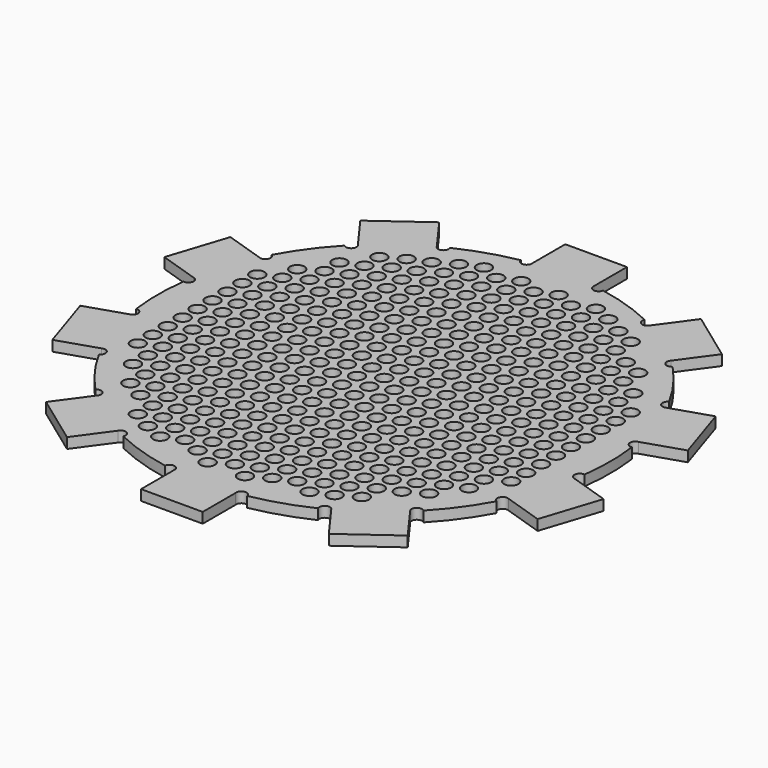
from build123d import *

# Parameters (mm, degrees)
F0_R     = 2.5
F1_DEPTH = 0.127
F3_R     = 0.0875
F4_DEPTH = 0.128


with BuildPart() as f1:
    # F0 (on Top) → F1 (new body)
    with BuildSketch(Plane.XY):
        with BuildLine():
            ThreePointArc((0.500372, 2.704095), (0.427693, 2.652237), (0.375, 2.724312))
            ThreePointArc((0.375, 2.724312), (0, 2.75), (-0.375, 2.724312))
            ThreePointArc((-0.375, 2.724312), (-0.427693, 2.652237), (-0.500372, 2.704095))
            ThreePointArc((-0.500372, 2.704095), (-0.849797, 2.615405), (-1.184618, 2.48177))
            ThreePointArc((-1.184618, 2.48177), (-1.212935, 2.397097), (-1.297929, 2.424434))
            ThreePointArc((-1.297929, 2.424434), (-1.616409, 2.224797), (-1.904692, 1.983595))
            ThreePointArc((-1.904692, 1.983595), (-1.904957, 1.894313), (-1.994236, 1.893547))
            ThreePointArc((-1.994236, 1.893547), (-2.224797, 1.616409), (-2.417123, 1.311493))
            ThreePointArc((-2.417123, 1.311493), (-2.390263, 1.226347), (-2.475093, 1.198505))
            ThreePointArc((-2.475093, 1.198505), (-2.615405, 0.849797), (-2.706856, 0.485212))
            ThreePointArc((-2.706856, 0.485212), (-2.654592, 0.412826), (-2.72637, 0.359729))
            ThreePointArc((-2.72637, 0.359729), (-2.75, 0), (-2.72637, -0.359729))
            ThreePointArc((-2.72637, -0.359729), (-2.654592, -0.412826), (-2.706856, -0.485212))
            ThreePointArc((-2.706856, -0.485212), (-2.615405, -0.849797), (-2.475093, -1.198505))
            ThreePointArc((-2.475093, -1.198505), (-2.390263, -1.226347), (-2.417123, -1.311493))
            ThreePointArc((-2.417123, -1.311493), (-2.224797, -1.616409), (-1.994236, -1.893547))
            ThreePointArc((-1.994236, -1.893547), (-1.904957, -1.894313), (-1.904692, -1.983595))
            Line((-1.904692, -1.983595), (-2.198584, -2.388104))
            Line((-2.198584, -2.388104), (-1.591822, -2.828943))
            Line((-1.591822, -2.828943), (-1.297929, -2.424434))
            ThreePointArc((-1.297929, -2.424434), (-1.212935, -2.397097), (-1.184618, -2.48177))
            ThreePointArc((-1.184618, -2.48177), (-0.849797, -2.615405), (-0.500372, -2.704095))
            ThreePointArc((-0.500372, -2.704095), (-0.427693, -2.652237), (-0.375, -2.724312))
            Line((-0.375, -2.724312), (-0.375, -3.224312))
            Line((-0.375, -3.224312), (0.375, -3.224312))
            Line((0.375, -3.224312), (0.375, -2.724312))
            ThreePointArc((0.375, -2.724312), (0.427693, -2.652237), (0.500372, -2.704095))
            ThreePointArc((0.500372, -2.704095), (0.849797, -2.615405), (1.184618, -2.48177))
            ThreePointArc((1.184618, -2.48177), (1.212935, -2.397097), (1.297929, -2.424434))
            ThreePointArc((1.297929, -2.424434), (1.616409, -2.224797), (1.904692, -1.983595))
            ThreePointArc((1.904692, -1.983595), (1.904957, -1.894313), (1.994236, -1.893547))
            ThreePointArc((1.994236, -1.893547), (2.224797, -1.616409), (2.417123, -1.311493))
            ThreePointArc((2.417123, -1.311493), (2.390263, -1.226347), (2.475093, -1.198505))
            ThreePointArc((2.475093, -1.198505), (2.615405, -0.849797), (2.706856, -0.485212))
            ThreePointArc((2.706856, -0.485212), (2.654592, -0.412826), (2.72637, -0.359729))
            ThreePointArc((2.72637, -0.359729), (2.75, 0), (2.72637, 0.359729))
            ThreePointArc((2.72637, 0.359729), (2.654592, 0.412826), (2.706856, 0.485212))
            ThreePointArc((2.706856, 0.485212), (2.615405, 0.849797), (2.475093, 1.198505))
            ThreePointArc((2.475093, 1.198505), (2.390263, 1.226347), (2.417123, 1.311493))
            ThreePointArc((2.417123, 1.311493), (2.224797, 1.616409), (1.994236, 1.893547))
            ThreePointArc((1.994236, 1.893547), (1.904957, 1.894313), (1.904692, 1.983595))
            ThreePointArc((1.904692, 1.983595), (1.616409, 2.224797), (1.297929, 2.424434))
            ThreePointArc((1.297929, 2.424434), (1.212935, 2.397097), (1.184618, 2.48177))
            ThreePointArc((1.184618, 2.48177), (0.849797, 2.615405), (0.500372, 2.704095))
        make_face()
        Circle(F0_R, mode=Mode.SUBTRACT)
        with BuildLine():
            ThreePointArc((-0.375, 2.724312), (0, 2.75), (0.375, 2.724312))
            Line((0.375, 2.724312), (0.375, 3.224312))
            Line((0.375, 3.224312), (-0.375, 3.224312))
            Line((-0.375, 3.224312), (-0.375, 2.724312))
        make_face()
        with BuildLine():
            Line((1.591822, 2.828943), (1.297929, 2.424434))
            ThreePointArc((1.297929, 2.424434), (1.616409, 2.224797), (1.904692, 1.983595))
            Line((1.904692, 1.983595), (2.198584, 2.388104))
            Line((2.198584, 2.388104), (1.591822, 2.828943))
        make_face()
        with BuildLine():
            ThreePointArc((-1.904692, 1.983595), (-1.616409, 2.224797), (-1.297929, 2.424434))
            Line((-1.297929, 2.424434), (-1.591822, 2.828943))
            Line((-1.591822, 2.828943), (-2.198584, 2.388104))
            Line((-2.198584, 2.388104), (-1.904692, 1.983595))
        make_face()
        with BuildLine():
            Line((2.950621, 1.353013), (2.475093, 1.198505))
            ThreePointArc((2.475093, 1.198505), (2.615405, 0.849797), (2.706856, 0.485212))
            Line((2.706856, 0.485212), (3.182384, 0.639721))
            Line((3.182384, 0.639721), (2.950621, 1.353013))
        make_face()
        with BuildLine():
            ThreePointArc((-2.706856, 0.485212), (-2.615405, 0.849797), (-2.475093, 1.198505))
            Line((-2.475093, 1.198505), (-2.950621, 1.353013))
            Line((-2.950621, 1.353013), (-3.182384, 0.639721))
            Line((-3.182384, 0.639721), (-2.706856, 0.485212))
        make_face()
        with BuildLine():
            Line((3.182384, -0.639721), (2.706856, -0.485212))
            ThreePointArc((2.706856, -0.485212), (2.615405, -0.849797), (2.475093, -1.198505))
            Line((2.475093, -1.198505), (2.950621, -1.353013))
            Line((2.950621, -1.353013), (3.182384, -0.639721))
        make_face()
        with BuildLine():
            ThreePointArc((-2.475093, -1.198505), (-2.615405, -0.849797), (-2.706856, -0.485212))
            Line((-2.706856, -0.485212), (-3.182384, -0.639721))
            Line((-3.182384, -0.639721), (-2.950621, -1.353013))
            Line((-2.950621, -1.353013), (-2.475093, -1.198505))
        make_face()
        with BuildLine():
            Line((2.198584, -2.388104), (1.904692, -1.983595))
            ThreePointArc((1.904692, -1.983595), (1.616409, -2.224797), (1.297929, -2.424434))
            Line((1.297929, -2.424434), (1.591822, -2.828943))
            Line((1.591822, -2.828943), (2.198584, -2.388104))
        make_face()
        Circle(F0_R)
    extrude(amount=F1_DEPTH)

    # F3 (on offset) → F4 (cut, through all)
    with BuildSketch(Plane.XY.offset(0.127)):
        with Locations((-2.041752, 1.233616)):
            Circle(F3_R)
        with Locations((-2.041752, 1.006616)):
            Circle(F3_R)
        with Locations((-2.269084, 0.910866)):
            Circle(F3_R)
        with Locations((-2.041752, 0.779616)):
            Circle(F3_R)
        with Locations((-1.587752, 1.914616)):
            Circle(F3_R)
        with Locations((-1.587752, 1.687616)):
            Circle(F3_R)
        with Locations((-1.815084, 1.591866)):
            Circle(F3_R)
        with Locations((-1.587752, 1.460616)):
            Circle(F3_R)
        with Locations((-1.815084, 1.364866)):
            Circle(F3_R)
        with Locations((-1.587752, 1.233616)):
            Circle(F3_R)
        with Locations((-1.815084, 1.137866)):
            Circle(F3_R)
        with Locations((-1.587752, 1.006616)):
            Circle(F3_R)
        with Locations((-1.815084, 0.910866)):
            Circle(F3_R)
        with Locations((-1.587752, 0.779616)):
            Circle(F3_R)
        with Locations((-1.133752, 2.141616)):
            Circle(F3_R)
        with Locations((-1.361084, 2.045866)):
            Circle(F3_R)
        with Locations((-1.133752, 1.914616)):
            Circle(F3_R)
        with Locations((-1.361084, 1.818866)):
            Circle(F3_R)
        with Locations((-1.133752, 1.687616)):
            Circle(F3_R)
        with Locations((-1.361084, 1.591866)):
            Circle(F3_R)
        with Locations((-1.133752, 1.460616)):
            Circle(F3_R)
        with Locations((-1.361084, 1.364866)):
            Circle(F3_R)
        with Locations((-1.133752, 1.233616)):
            Circle(F3_R)
        with Locations((-1.361084, 1.137866)):
            Circle(F3_R)
        with Locations((-1.133752, 1.006616)):
            Circle(F3_R)
        with Locations((-1.361084, 0.910866)):
            Circle(F3_R)
        with Locations((-1.133752, 0.779616)):
            Circle(F3_R)
        with Locations((-0.679752, 2.368616)):
            Circle(F3_R)
        with Locations((-0.907084, 2.272866)):
            Circle(F3_R)
        with Locations((-0.679752, 2.141616)):
            Circle(F3_R)
        with Locations((-0.907084, 2.045866)):
            Circle(F3_R)
        with Locations((-0.679752, 1.914616)):
            Circle(F3_R)
        with Locations((-0.907084, 1.818866)):
            Circle(F3_R)
        with Locations((-0.679752, 1.687616)):
            Circle(F3_R)
        with Locations((-0.907084, 1.591866)):
            Circle(F3_R)
        with Locations((-0.679752, 1.460616)):
            Circle(F3_R)
        with Locations((-0.907084, 1.364866)):
            Circle(F3_R)
        with Locations((-0.679752, 1.233616)):
            Circle(F3_R)
        with Locations((-0.907084, 1.137866)):
            Circle(F3_R)
        with Locations((-0.679752, 1.006616)):
            Circle(F3_R)
        with Locations((-0.907084, 0.910866)):
            Circle(F3_R)
        with Locations((-0.679752, 0.779616)):
            Circle(F3_R)
        with Locations((-0.225752, 2.368616)):
            Circle(F3_R)
        with Locations((-0.453084, 2.272866)):
            Circle(F3_R)
        with Locations((-0.225752, 2.141616)):
            Circle(F3_R)
        with Locations((-0.453084, 2.045866)):
            Circle(F3_R)
        with Locations((-0.225752, 1.914616)):
            Circle(F3_R)
        with Locations((-0.453084, 1.818866)):
            Circle(F3_R)
        with Locations((-0.225752, 1.687616)):
            Circle(F3_R)
        with Locations((-0.453084, 1.591866)):
            Circle(F3_R)
        with Locations((-0.225752, 1.460616)):
            Circle(F3_R)
        with Locations((-0.453084, 1.364866)):
            Circle(F3_R)
        with Locations((-0.225752, 1.233616)):
            Circle(F3_R)
        with Locations((-0.453084, 1.137866)):
            Circle(F3_R)
        with Locations((-0.225752, 1.006616)):
            Circle(F3_R)
        with Locations((-0.453084, 0.910866)):
            Circle(F3_R)
        with Locations((-0.225752, 0.779616)):
            Circle(F3_R)
        with Locations((0.228248, 2.368616)):
            Circle(F3_R)
        with Locations((0.000916, 2.272866)):
            Circle(F3_R)
        with Locations((0.228248, 2.141616)):
            Circle(F3_R)
        with Locations((0.000916, 2.045866)):
            Circle(F3_R)
        with Locations((0.228248, 1.914616)):
            Circle(F3_R)
        with Locations((0.000916, 1.818866)):
            Circle(F3_R)
        with Locations((0.228248, 1.687616)):
            Circle(F3_R)
        with Locations((0.000916, 1.591866)):
            Circle(F3_R)
        with Locations((0.228248, 1.460616)):
            Circle(F3_R)
        with Locations((0.000916, 1.364866)):
            Circle(F3_R)
        with Locations((0.228248, 1.233616)):
            Circle(F3_R)
        with Locations((0.000916, 1.137866)):
            Circle(F3_R)
        with Locations((0.228248, 1.006616)):
            Circle(F3_R)
        with Locations((0.000916, 0.910866)):
            Circle(F3_R)
        with Locations((0.228248, 0.779616)):
            Circle(F3_R)
        with Locations((0.682248, 2.368616)):
            Circle(F3_R)
        with Locations((0.454916, 2.272866)):
            Circle(F3_R)
        with Locations((0.682248, 2.141616)):
            Circle(F3_R)
        with Locations((0.454916, 2.045866)):
            Circle(F3_R)
        with Locations((0.682248, 1.914616)):
            Circle(F3_R)
        with Locations((0.454916, 1.818866)):
            Circle(F3_R)
        with Locations((0.682248, 1.687616)):
            Circle(F3_R)
        with Locations((0.454916, 1.591866)):
            Circle(F3_R)
        with Locations((0.682248, 1.460616)):
            Circle(F3_R)
        with Locations((0.454916, 1.364866)):
            Circle(F3_R)
        with Locations((0.682248, 1.233616)):
            Circle(F3_R)
        with Locations((0.454916, 1.137866)):
            Circle(F3_R)
        with Locations((0.682248, 1.006616)):
            Circle(F3_R)
        with Locations((0.454916, 0.910866)):
            Circle(F3_R)
        with Locations((0.682248, 0.779616)):
            Circle(F3_R)
        with Locations((0.908916, 2.272866)):
            Circle(F3_R)
        with Locations((1.136248, 2.141616)):
            Circle(F3_R)
        with Locations((0.908916, 2.045866)):
            Circle(F3_R)
        with Locations((1.136248, 1.914616)):
            Circle(F3_R)
        with Locations((0.908916, 1.818866)):
            Circle(F3_R)
        with Locations((1.136248, 1.687616)):
            Circle(F3_R)
        with Locations((0.908916, 1.591866)):
            Circle(F3_R)
        with Locations((1.136248, 1.460616)):
            Circle(F3_R)
        with Locations((0.908916, 1.364866)):
            Circle(F3_R)
        with Locations((1.136248, 1.233616)):
            Circle(F3_R)
        with Locations((0.908916, 1.137866)):
            Circle(F3_R)
        with Locations((1.136248, 1.006616)):
            Circle(F3_R)
        with Locations((0.908916, 0.910866)):
            Circle(F3_R)
        with Locations((1.136248, 0.779616)):
            Circle(F3_R)
        with Locations((1.362916, 2.045866)):
            Circle(F3_R)
        with Locations((1.362916, 1.818866)):
            Circle(F3_R)
        with Locations((1.590248, 1.687616)):
            Circle(F3_R)
        with Locations((1.362916, 1.591866)):
            Circle(F3_R)
        with Locations((1.590248, 1.460616)):
            Circle(F3_R)
        with Locations((1.362916, 1.364866)):
            Circle(F3_R)
        with Locations((1.590248, 1.233616)):
            Circle(F3_R)
        with Locations((1.362916, 1.137866)):
            Circle(F3_R)
        with Locations((1.590248, 1.006616)):
            Circle(F3_R)
        with Locations((1.362916, 0.910866)):
            Circle(F3_R)
        with Locations((1.590248, 0.779616)):
            Circle(F3_R)
        with Locations((1.816916, 1.591866)):
            Circle(F3_R)
        with Locations((1.816916, 1.364866)):
            Circle(F3_R)
        with Locations((2.044248, 1.233616)):
            Circle(F3_R)
        with Locations((1.816916, 1.137866)):
            Circle(F3_R)
        with Locations((2.044248, 1.006616)):
            Circle(F3_R)
        with Locations((1.816916, 0.910866)):
            Circle(F3_R)
        with Locations((2.044248, 0.779616)):
            Circle(F3_R)
        with Locations((-2.269084, 0.683866)):
            Circle(F3_R)
        with Locations((-2.041752, 0.552616)):
            Circle(F3_R)
        with Locations((-2.269084, 0.456866)):
            Circle(F3_R)
        with Locations((-2.041752, 0.325616)):
            Circle(F3_R)
        with Locations((-2.269084, 0.229866)):
            Circle(F3_R)
        with Locations((-2.041752, 0.098616)):
            Circle(F3_R)
        with Locations((-2.269084, 0.002866)):
            Circle(F3_R)
        with Locations((-2.041752, -0.128384)):
            Circle(F3_R)
        with Locations((-2.269084, -0.224134)):
            Circle(F3_R)
        with Locations((-2.041752, -0.355384)):
            Circle(F3_R)
        with Locations((-2.269084, -0.451134)):
            Circle(F3_R)
        with Locations((-2.041752, -0.582384)):
            Circle(F3_R)
        with Locations((-2.269084, -0.678134)):
            Circle(F3_R)
        with Locations((-2.041752, -0.809384)):
            Circle(F3_R)
        with Locations((-2.269084, -0.905134)):
            Circle(F3_R)
        with Locations((-2.041752, -1.036384)):
            Circle(F3_R)
        with Locations((-2.041752, -1.263384)):
            Circle(F3_R)
        with Locations((-1.815084, 0.683866)):
            Circle(F3_R)
        with Locations((-1.587752, 0.552616)):
            Circle(F3_R)
        with Locations((-1.815084, 0.456866)):
            Circle(F3_R)
        with Locations((-1.587752, 0.325616)):
            Circle(F3_R)
        with Locations((-1.815084, 0.229866)):
            Circle(F3_R)
        with Locations((-1.587752, 0.098616)):
            Circle(F3_R)
        with Locations((-1.815084, 0.002866)):
            Circle(F3_R)
        with Locations((-1.587752, -0.128384)):
            Circle(F3_R)
        with Locations((-1.815084, -0.224134)):
            Circle(F3_R)
        with Locations((-1.587752, -0.355384)):
            Circle(F3_R)
        with Locations((-1.815084, -0.451134)):
            Circle(F3_R)
        with Locations((-1.587752, -0.582384)):
            Circle(F3_R)
        with Locations((-1.815084, -0.678134)):
            Circle(F3_R)
        with Locations((-1.587752, -0.809384)):
            Circle(F3_R)
        with Locations((-1.815084, -0.905134)):
            Circle(F3_R)
        with Locations((-1.587752, -1.036384)):
            Circle(F3_R)
        with Locations((-1.815084, -1.132134)):
            Circle(F3_R)
        with Locations((-1.587752, -1.263384)):
            Circle(F3_R)
        with Locations((-1.815084, -1.359134)):
            Circle(F3_R)
        with Locations((-1.587752, -1.490384)):
            Circle(F3_R)
        with Locations((-1.815084, -1.586134)):
            Circle(F3_R)
        with Locations((-1.587752, -1.717384)):
            Circle(F3_R)
        with Locations((-1.361084, 0.683866)):
            Circle(F3_R)
        with Locations((-1.133752, 0.552616)):
            Circle(F3_R)
        with Locations((-1.361084, 0.456866)):
            Circle(F3_R)
        with Locations((-1.133752, 0.325616)):
            Circle(F3_R)
        with Locations((-1.361084, 0.229866)):
            Circle(F3_R)
        with Locations((-1.133752, 0.098616)):
            Circle(F3_R)
        with Locations((-1.361084, 0.002866)):
            Circle(F3_R)
        with Locations((-1.133752, -0.128384)):
            Circle(F3_R)
        with Locations((-1.361084, -0.224134)):
            Circle(F3_R)
        with Locations((-1.133752, -0.355384)):
            Circle(F3_R)
        with Locations((-1.361084, -0.451134)):
            Circle(F3_R)
        with Locations((-1.133752, -0.582384)):
            Circle(F3_R)
        with Locations((-1.361084, -0.678134)):
            Circle(F3_R)
        with Locations((-1.133752, -0.809384)):
            Circle(F3_R)
        with Locations((-1.361084, -0.905134)):
            Circle(F3_R)
        with Locations((-1.133752, -1.036384)):
            Circle(F3_R)
        with Locations((-1.361084, -1.132134)):
            Circle(F3_R)
        with Locations((-1.133752, -1.263384)):
            Circle(F3_R)
        with Locations((-1.361084, -1.359134)):
            Circle(F3_R)
        with Locations((-1.133752, -1.490384)):
            Circle(F3_R)
        with Locations((-1.361084, -1.586134)):
            Circle(F3_R)
        with Locations((-1.133752, -1.717384)):
            Circle(F3_R)
        with Locations((-0.907084, 0.683866)):
            Circle(F3_R)
        with Locations((-0.679752, 0.552616)):
            Circle(F3_R)
        with Locations((-0.907084, 0.456866)):
            Circle(F3_R)
        with Locations((-0.679752, 0.325616)):
            Circle(F3_R)
        with Locations((-0.907084, 0.229866)):
            Circle(F3_R)
        with Locations((-0.679752, 0.098616)):
            Circle(F3_R)
        with Locations((-0.907084, 0.002866)):
            Circle(F3_R)
        with Locations((-0.679752, -0.128384)):
            Circle(F3_R)
        with Locations((-0.907084, -0.224134)):
            Circle(F3_R)
        with Locations((-0.679752, -0.355384)):
            Circle(F3_R)
        with Locations((-0.907084, -0.451134)):
            Circle(F3_R)
        with Locations((-0.679752, -0.582384)):
            Circle(F3_R)
        with Locations((-0.907084, -0.678134)):
            Circle(F3_R)
        with Locations((-0.679752, -0.809384)):
            Circle(F3_R)
        with Locations((-0.907084, -0.905134)):
            Circle(F3_R)
        with Locations((-0.679752, -1.036384)):
            Circle(F3_R)
        with Locations((-0.907084, -1.132134)):
            Circle(F3_R)
        with Locations((-0.679752, -1.263384)):
            Circle(F3_R)
        with Locations((-0.907084, -1.359134)):
            Circle(F3_R)
        with Locations((-0.679752, -1.490384)):
            Circle(F3_R)
        with Locations((-0.907084, -1.586134)):
            Circle(F3_R)
        with Locations((-0.679752, -1.717384)):
            Circle(F3_R)
        with Locations((-0.453084, 0.683866)):
            Circle(F3_R)
        with Locations((-0.225752, 0.552616)):
            Circle(F3_R)
        with Locations((-0.453084, 0.456866)):
            Circle(F3_R)
        with Locations((-0.225752, 0.325616)):
            Circle(F3_R)
        with Locations((-0.453084, 0.229866)):
            Circle(F3_R)
        with Locations((-0.225752, 0.098616)):
            Circle(F3_R)
        with Locations((-0.453084, 0.002866)):
            Circle(F3_R)
        with Locations((-0.225752, -0.128384)):
            Circle(F3_R)
        with Locations((-0.453084, -0.224134)):
            Circle(F3_R)
        with Locations((-0.225752, -0.355384)):
            Circle(F3_R)
        with Locations((-0.453084, -0.451134)):
            Circle(F3_R)
        with Locations((-0.225752, -0.582384)):
            Circle(F3_R)
        with Locations((-0.453084, -0.678134)):
            Circle(F3_R)
        with Locations((-0.225752, -0.809384)):
            Circle(F3_R)
        with Locations((-0.453084, -0.905134)):
            Circle(F3_R)
        with Locations((-0.225752, -1.036384)):
            Circle(F3_R)
        with Locations((-0.453084, -1.132134)):
            Circle(F3_R)
        with Locations((-0.225752, -1.263384)):
            Circle(F3_R)
        with Locations((-0.453084, -1.359134)):
            Circle(F3_R)
        with Locations((-0.225752, -1.490384)):
            Circle(F3_R)
        with Locations((-0.453084, -1.586134)):
            Circle(F3_R)
        with Locations((-0.225752, -1.717384)):
            Circle(F3_R)
        with Locations((0.000916, 0.683866)):
            Circle(F3_R)
        with Locations((0.228248, 0.552616)):
            Circle(F3_R)
        with Locations((0.000916, 0.456866)):
            Circle(F3_R)
        with Locations((0.228248, 0.325616)):
            Circle(F3_R)
        with Locations((0.000916, 0.229866)):
            Circle(F3_R)
        with Locations((0.228248, 0.098616)):
            Circle(F3_R)
        with Locations((0.000916, 0.002866)):
            Circle(F3_R)
        with Locations((0.228248, -0.128384)):
            Circle(F3_R)
        with Locations((0.000916, -0.224134)):
            Circle(F3_R)
        with Locations((0.228248, -0.355384)):
            Circle(F3_R)
        with Locations((0.000916, -0.451134)):
            Circle(F3_R)
        with Locations((0.228248, -0.582384)):
            Circle(F3_R)
        with Locations((0.000916, -0.678134)):
            Circle(F3_R)
        with Locations((0.228248, -0.809384)):
            Circle(F3_R)
        with Locations((0.000916, -0.905134)):
            Circle(F3_R)
        with Locations((0.228248, -1.036384)):
            Circle(F3_R)
        with Locations((0.000916, -1.132134)):
            Circle(F3_R)
        with Locations((0.228248, -1.263384)):
            Circle(F3_R)
        with Locations((0.000916, -1.359134)):
            Circle(F3_R)
        with Locations((0.228248, -1.490384)):
            Circle(F3_R)
        with Locations((0.000916, -1.586134)):
            Circle(F3_R)
        with Locations((0.228248, -1.717384)):
            Circle(F3_R)
        with Locations((0.454916, 0.683866)):
            Circle(F3_R)
        with Locations((0.682248, 0.552616)):
            Circle(F3_R)
        with Locations((0.454916, 0.456866)):
            Circle(F3_R)
        with Locations((0.682248, 0.325616)):
            Circle(F3_R)
        with Locations((0.454916, 0.229866)):
            Circle(F3_R)
        with Locations((0.682248, 0.098616)):
            Circle(F3_R)
        with Locations((0.454916, 0.002866)):
            Circle(F3_R)
        with Locations((0.682248, -0.128384)):
            Circle(F3_R)
        with Locations((0.454916, -0.224134)):
            Circle(F3_R)
        with Locations((0.682248, -0.355384)):
            Circle(F3_R)
        with Locations((0.454916, -0.451134)):
            Circle(F3_R)
        with Locations((0.682248, -0.582384)):
            Circle(F3_R)
        with Locations((0.454916, -0.678134)):
            Circle(F3_R)
        with Locations((0.682248, -0.809384)):
            Circle(F3_R)
        with Locations((0.454916, -0.905134)):
            Circle(F3_R)
        with Locations((0.682248, -1.036384)):
            Circle(F3_R)
        with Locations((0.454916, -1.132134)):
            Circle(F3_R)
        with Locations((0.682248, -1.263384)):
            Circle(F3_R)
        with Locations((0.454916, -1.359134)):
            Circle(F3_R)
        with Locations((0.682248, -1.490384)):
            Circle(F3_R)
        with Locations((0.454916, -1.586134)):
            Circle(F3_R)
        with Locations((0.682248, -1.717384)):
            Circle(F3_R)
        with Locations((0.908916, 0.683866)):
            Circle(F3_R)
        with Locations((1.136248, 0.552616)):
            Circle(F3_R)
        with Locations((0.908916, 0.456866)):
            Circle(F3_R)
        with Locations((1.136248, 0.325616)):
            Circle(F3_R)
        with Locations((0.908916, 0.229866)):
            Circle(F3_R)
        with Locations((1.136248, 0.098616)):
            Circle(F3_R)
        with Locations((0.908916, 0.002866)):
            Circle(F3_R)
        with Locations((1.136248, -0.128384)):
            Circle(F3_R)
        with Locations((0.908916, -0.224134)):
            Circle(F3_R)
        with Locations((1.136248, -0.355384)):
            Circle(F3_R)
        with Locations((0.908916, -0.451134)):
            Circle(F3_R)
        with Locations((1.136248, -0.582384)):
            Circle(F3_R)
        with Locations((0.908916, -0.678134)):
            Circle(F3_R)
        with Locations((1.136248, -0.809384)):
            Circle(F3_R)
        with Locations((0.908916, -0.905134)):
            Circle(F3_R)
        with Locations((1.136248, -1.036384)):
            Circle(F3_R)
        with Locations((0.908916, -1.132134)):
            Circle(F3_R)
        with Locations((1.136248, -1.263384)):
            Circle(F3_R)
        with Locations((0.908916, -1.359134)):
            Circle(F3_R)
        with Locations((1.136248, -1.490384)):
            Circle(F3_R)
        with Locations((0.908916, -1.586134)):
            Circle(F3_R)
        with Locations((1.136248, -1.717384)):
            Circle(F3_R)
        with Locations((1.362916, 0.683866)):
            Circle(F3_R)
        with Locations((1.590248, 0.552616)):
            Circle(F3_R)
        with Locations((1.362916, 0.456866)):
            Circle(F3_R)
        with Locations((1.590248, 0.325616)):
            Circle(F3_R)
        with Locations((1.362916, 0.229866)):
            Circle(F3_R)
        with Locations((1.590248, 0.098616)):
            Circle(F3_R)
        with Locations((1.362916, 0.002866)):
            Circle(F3_R)
        with Locations((1.590248, -0.128384)):
            Circle(F3_R)
        with Locations((1.362916, -0.224134)):
            Circle(F3_R)
        with Locations((1.590248, -0.355384)):
            Circle(F3_R)
        with Locations((1.362916, -0.451134)):
            Circle(F3_R)
        with Locations((1.590248, -0.582384)):
            Circle(F3_R)
        with Locations((1.362916, -0.678134)):
            Circle(F3_R)
        with Locations((1.590248, -0.809384)):
            Circle(F3_R)
        with Locations((1.362916, -0.905134)):
            Circle(F3_R)
        with Locations((1.590248, -1.036384)):
            Circle(F3_R)
        with Locations((1.362916, -1.132134)):
            Circle(F3_R)
        with Locations((1.590248, -1.263384)):
            Circle(F3_R)
        with Locations((1.362916, -1.359134)):
            Circle(F3_R)
        with Locations((1.590248, -1.490384)):
            Circle(F3_R)
        with Locations((1.362916, -1.586134)):
            Circle(F3_R)
        with Locations((1.590248, -1.717384)):
            Circle(F3_R)
        with Locations((1.816916, 0.683866)):
            Circle(F3_R)
        with Locations((2.044248, 0.552616)):
            Circle(F3_R)
        with Locations((1.816916, 0.456866)):
            Circle(F3_R)
        with Locations((2.044248, 0.325616)):
            Circle(F3_R)
        with Locations((1.816916, 0.229866)):
            Circle(F3_R)
        with Locations((2.044248, 0.098616)):
            Circle(F3_R)
        with Locations((1.816916, 0.002866)):
            Circle(F3_R)
        with Locations((2.044248, -0.128384)):
            Circle(F3_R)
        with Locations((1.816916, -0.224134)):
            Circle(F3_R)
        with Locations((2.044248, -0.355384)):
            Circle(F3_R)
        with Locations((1.816916, -0.451134)):
            Circle(F3_R)
        with Locations((2.044248, -0.582384)):
            Circle(F3_R)
        with Locations((1.816916, -0.678134)):
            Circle(F3_R)
        with Locations((2.044248, -0.809384)):
            Circle(F3_R)
        with Locations((1.816916, -0.905134)):
            Circle(F3_R)
        with Locations((2.044248, -1.036384)):
            Circle(F3_R)
        with Locations((1.816916, -1.132134)):
            Circle(F3_R)
        with Locations((2.044248, -1.263384)):
            Circle(F3_R)
        with Locations((1.816916, -1.359134)):
            Circle(F3_R)
        with Locations((1.816916, -1.586134)):
            Circle(F3_R)
        with Locations((2.270916, 0.910866)):
            Circle(F3_R)
        with Locations((2.270916, 0.683866)):
            Circle(F3_R)
        with Locations((2.270916, 0.456866)):
            Circle(F3_R)
        with Locations((2.270916, 0.229866)):
            Circle(F3_R)
        with Locations((2.270916, 0.002866)):
            Circle(F3_R)
        with Locations((2.270916, -0.224134)):
            Circle(F3_R)
        with Locations((2.270916, -0.451134)):
            Circle(F3_R)
        with Locations((2.270916, -0.678134)):
            Circle(F3_R)
        with Locations((2.270916, -0.905134)):
            Circle(F3_R)
        with Locations((-1.361084, -1.813134)):
            Circle(F3_R)
        with Locations((-1.133752, -1.944384)):
            Circle(F3_R)
        with Locations((-1.361084, -2.040134)):
            Circle(F3_R)
        with Locations((-1.133752, -2.171384)):
            Circle(F3_R)
        with Locations((-0.907084, -1.813134)):
            Circle(F3_R)
        with Locations((-0.679752, -1.944384)):
            Circle(F3_R)
        with Locations((-0.907084, -2.040134)):
            Circle(F3_R)
        with Locations((-0.679752, -2.171384)):
            Circle(F3_R)
        with Locations((-0.907084, -2.267134)):
            Circle(F3_R)
        with Locations((-0.453084, -1.813134)):
            Circle(F3_R)
        with Locations((-0.225752, -1.944384)):
            Circle(F3_R)
        with Locations((-0.453084, -2.040134)):
            Circle(F3_R)
        with Locations((-0.225752, -2.171384)):
            Circle(F3_R)
        with Locations((-0.453084, -2.267134)):
            Circle(F3_R)
        with Locations((-0.225752, -2.398384)):
            Circle(F3_R)
        with Locations((0.000916, -1.813134)):
            Circle(F3_R)
        with Locations((0.228248, -1.944384)):
            Circle(F3_R)
        with Locations((0.000916, -2.040134)):
            Circle(F3_R)
        with Locations((0.228248, -2.171384)):
            Circle(F3_R)
        with Locations((0.000916, -2.267134)):
            Circle(F3_R)
        with Locations((0.228248, -2.398384)):
            Circle(F3_R)
        with Locations((0.454916, -1.813134)):
            Circle(F3_R)
        with Locations((0.682248, -1.944384)):
            Circle(F3_R)
        with Locations((0.454916, -2.040134)):
            Circle(F3_R)
        with Locations((0.682248, -2.171384)):
            Circle(F3_R)
        with Locations((0.454916, -2.267134)):
            Circle(F3_R)
        with Locations((0.908916, -1.813134)):
            Circle(F3_R)
        with Locations((1.136248, -1.944384)):
            Circle(F3_R)
        with Locations((0.908916, -2.040134)):
            Circle(F3_R)
        with Locations((1.136248, -2.171384)):
            Circle(F3_R)
        with Locations((0.908916, -2.267134)):
            Circle(F3_R)
        with Locations((1.362916, -1.813134)):
            Circle(F3_R)
        with Locations((1.362916, -2.040134)):
            Circle(F3_R)
    extrude(amount=-F4_DEPTH, mode=Mode.SUBTRACT)


solid = f1.part
